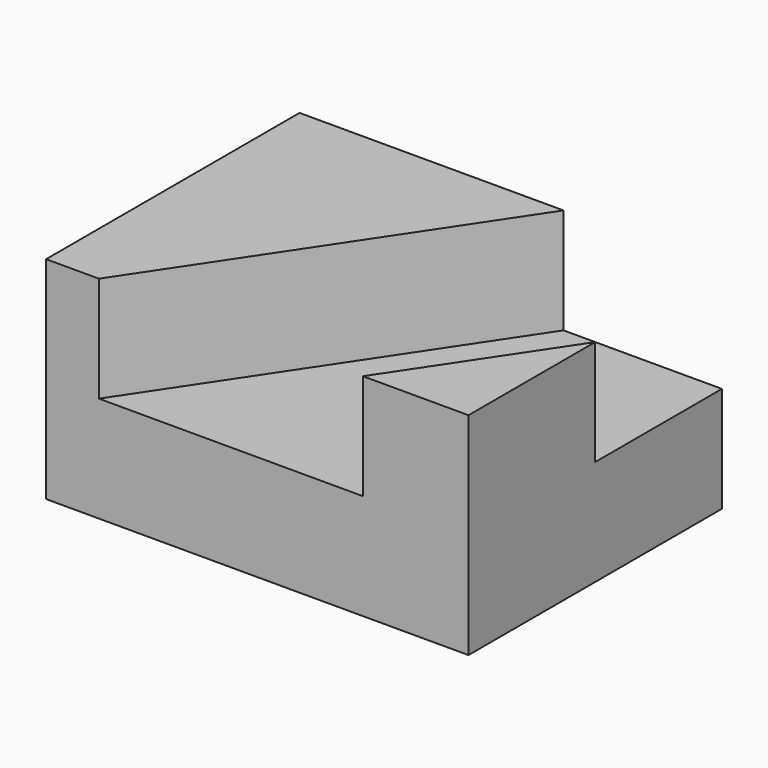
from build123d import *

# Parameters (mm, degrees)
F0_W     = 50.8
F0_H     = 38.1
F1_DEPTH = 25.4
F3_DEPTH = 12.7


with BuildPart() as f1:
    # F0 (on Top) → F1 (new body)
    with BuildSketch(Plane.XY):
        with Locations((25.4, 19.05)):
            Rectangle(F0_W, F0_H)
    extrude(amount=F1_DEPTH)

    # F2 (on face) → F3 (cut)
    with BuildSketch(Plane.XY.offset(25.4)):
        Polygon((31.75, 38.1), (6.35, 0), (38.1, 0), (50.8, 19.05), (50.8, 38.1), align=None)
    extrude(amount=-F3_DEPTH, mode=Mode.SUBTRACT)


solid = f1.part
